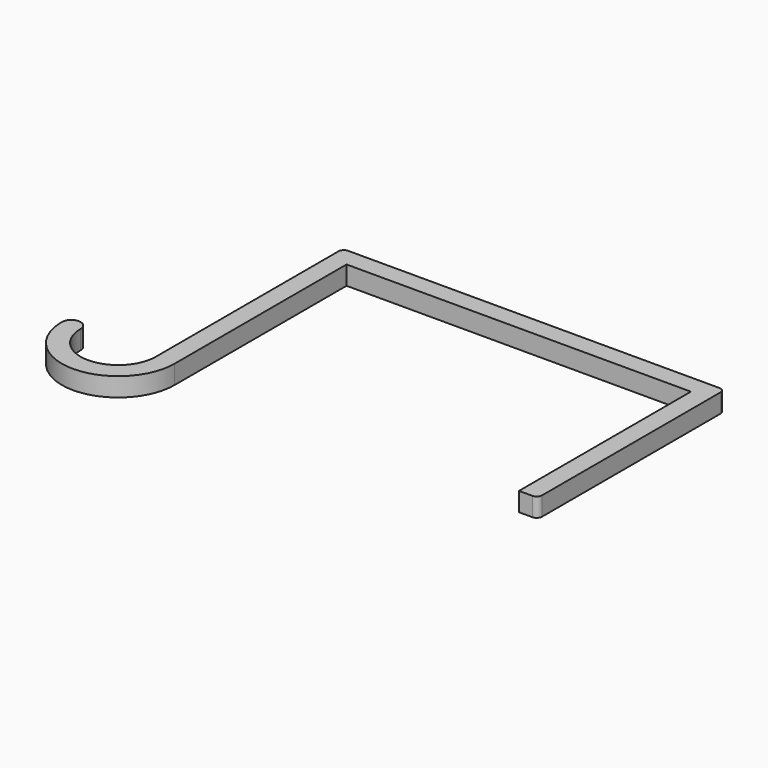
from build123d import *

# Parameters (mm, degrees)
F2_DEPTH = 7


with BuildPart() as f2:
    # F1 (on Top) → F2 (new body)
    with BuildSketch(Plane.XY):
        with BuildLine():
            ThreePointArc((14, 0), (0, -14), (-14, 0))
            ThreePointArc((-14, 0), (-17.5, 3.5), (-21, 0))
            ThreePointArc((-21, 0), (0, -21), (21, 0))
            Line((21, 0), (21, 80))
            Line((21, 80), (149.2, 80))
            Line((149.2, 80), (149.2, 0))
            Line((149.2, 0), (154.2, 0))
            ThreePointArc((154.2, 0), (155.6142135624, 0.5857864376), (156.2, 2))
            Line((156.2, 2), (156.2, 85))
            ThreePointArc((156.2, 85), (155.6142135624, 86.4142135624), (154.2, 87))
            Line((154.2, 87), (16, 87))
            ThreePointArc((16, 87), (14.5857864376, 86.4142135624), (14, 85))
            Line((14, 85), (14, 0))
        make_face()
    extrude(amount=F2_DEPTH)


solid = f2.part
